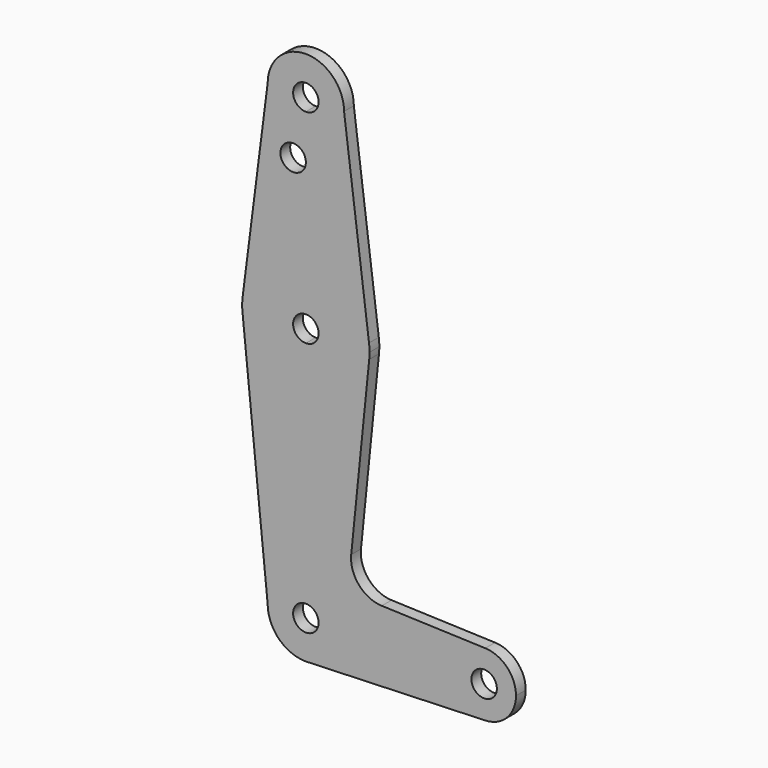
from build123d import *

# Parameters (mm, degrees)
F0_R     = 3.175
F1_DEPTH = 3.048


with BuildPart() as f1:
    # F0 (on Front) → F1 (new body)
    with BuildSketch(Plane.XZ):
        with BuildLine():
            ThreePointArc((3.175, 0), (-2.2450640303, -2.2450640303), (0, 3.175))
            Line((0, 3.175), (0, 9.525))
            ThreePointArc((0, 9.525), (-6.7351920908, 6.7351920908), (-9.525, 0))
            ThreePointArc((-9.525, 0), (-6.7351920908, -6.7351920908), (0, -9.525))
            Line((0, -9.525), (0.6773435479, -9.500885786))
            ThreePointArc((0.6773435479, -9.500885786), (6.9705567315, -6.4912990883), (9.525, 0))
            Line((9.525, 0), (3.175, 0))
        make_face()
        with BuildLine():
            ThreePointArc((-9.525, 0), (-6.7351920908, 6.7351920908), (0, 9.525))
            Line((0, 9.525), (0, 47.625))
            ThreePointArc((0, 47.625), (-10.4912828548, 51.5857812233), (-15.7474569047, 61.4917106696))
            Line((-15.7474569047, 61.4917106696), (-9.525, 0))
        make_face()
        with BuildLine():
            Line((0, 47.625), (0, 9.525))
            ThreePointArc((0, 9.525), (6.7351920908, 6.7351920908), (9.525, 0))
            Line((9.525, 0), (36.5125, 0))
            ThreePointArc((36.5125, 0), (38.9380895153, 5.7116327839), (44.7324052746, 7.9324746146))
            Line((44.7324052746, 7.9324746146), (18.9341027877, 8.850924033))
            ThreePointArc((18.9341027877, 8.850924033), (13.2249738114, 11.5709798305), (11.3072231466, 17.5971800924))
            Line((11.3072231466, 17.5971800924), (15.7942028036, 61.9003804205))
            ThreePointArc((15.7942028036, 61.9003804205), (10.644756084, 51.722700101), (0, 47.625))
        make_face()
        with BuildLine():
            Line((36.5125, 0), (9.525, 0))
            ThreePointArc((9.525, 0), (6.9705567315, -6.4912990883), (0.6773435479, -9.500885786))
            Line((0.6773435479, -9.500885786), (44.7324052746, -7.9324746146))
            ThreePointArc((44.7324052746, -7.9324746146), (38.9380895153, -5.7116327839), (36.5125, 0))
        make_face()
        with BuildLine():
            ThreePointArc((-15.7474569047, 61.4917106696), (-10.4912828548, 51.5857812233), (0, 47.625))
            Line((0, 47.625), (0, 60.325))
            ThreePointArc((0, 60.325), (-3.175, 63.5), (0, 66.675))
            Line((0, 66.675), (0, 79.375))
            ThreePointArc((0, 79.375), (-10.4912828548, 75.4142187767), (-15.7474569047, 65.5082893304))
            ThreePointArc((-15.7474569047, 65.5082893304), (-15.875, 63.5), (-15.7474569047, 61.4917106696))
        make_face()
        with BuildLine():
            Line((0, 60.325), (0, 47.625))
            ThreePointArc((0, 47.625), (10.644756084, 51.722700101), (15.7942028036, 61.9003804205))
            ThreePointArc((15.7942028036, 61.9003804205), (15.8547878338, 62.6991705884), (15.875, 63.5))
            ThreePointArc((15.875, 63.5), (15.8430821396, 64.5061676396), (15.7474569047, 65.5082893304))
            ThreePointArc((15.7474569047, 65.5082893304), (10.4912828548, 75.4142187767), (0, 79.375))
            Line((0, 79.375), (0, 66.675))
            ThreePointArc((0, 66.675), (2.2450640303, 65.7450640303), (3.175, 63.5))
            ThreePointArc((3.175, 63.5), (2.2450640303, 61.2549359697), (0, 60.325))
        make_face()
        with BuildLine():
            ThreePointArc((44.7324052746, 7.9324746146), (38.9380895153, 5.7116327839), (36.5125, 0))
            ThreePointArc((36.5125, 0), (38.9380895153, -5.7116327839), (44.7324052746, -7.9324746146))
            ThreePointArc((44.7324052746, -7.9324746146), (50.1616327839, -5.5119104847), (52.3875, 0))
            ThreePointArc((52.3875, 0), (50.1616327839, 5.5119104847), (44.7324052746, 7.9324746146))
        make_face()
        with BuildLine():
            ThreePointArc((47.625, 0), (44.45, -3.175), (41.275, 0))
            ThreePointArc((41.275, 0), (44.45, 3.175), (47.625, 0))
        make_face(mode=Mode.SUBTRACT)
        with BuildLine():
            ThreePointArc((0, -9.525), (0.3388863295, -9.5189695375), (0.6773435479, -9.500885786))
            Line((0.6773435479, -9.500885786), (0, -9.525))
        make_face()
        with BuildLine():
            Line((-9.525, 114.3), (-15.7474569047, 65.5082893304))
            ThreePointArc((-15.7474569047, 65.5082893304), (-10.4912828548, 75.4142187767), (0, 79.375))
            Line((0, 79.375), (0, 100.0252))
            Line((0, 100.0252), (0, 104.775))
            ThreePointArc((0, 104.775), (-6.7351920908, 107.5648079092), (-9.525, 114.3))
        make_face()
        with Locations((-3.175, 100.0252)):
            Circle(F0_R, mode=Mode.SUBTRACT)
        with BuildLine():
            Line((0, 100.0252), (0, 79.375))
            ThreePointArc((0, 79.375), (10.4912828548, 75.4142187767), (15.7474569047, 65.5082893304))
            Line((15.7474569047, 65.5082893304), (9.525, 114.3))
            ThreePointArc((9.525, 114.3), (6.7351920908, 107.5648079092), (0, 104.775))
            Line((0, 104.775), (0, 100.0252))
        make_face()
        with BuildLine():
            ThreePointArc((9.525, 114.3), (0, 123.825), (-9.525, 114.3))
            ThreePointArc((-9.525, 114.3), (-6.7351920908, 107.5648079092), (0, 104.775))
            ThreePointArc((0, 104.775), (6.7351920908, 107.5648079092), (9.525, 114.3))
        make_face()
        with BuildLine():
            ThreePointArc((3.175, 114.3), (2.2450640303, 112.0549359697), (0, 111.125))
            ThreePointArc((0, 111.125), (-2.2450640303, 116.5450640303), (3.175, 114.3))
        make_face(mode=Mode.SUBTRACT)
        with BuildLine():
            Line((0, 9.525), (0, 3.175))
            ThreePointArc((0, 3.175), (2.2450640303, 2.2450640303), (3.175, 0))
            Line((3.175, 0), (9.525, 0))
            ThreePointArc((9.525, 0), (6.7351920908, 6.7351920908), (0, 9.525))
        make_face()
    extrude(amount=F1_DEPTH)


solid = f1.part
